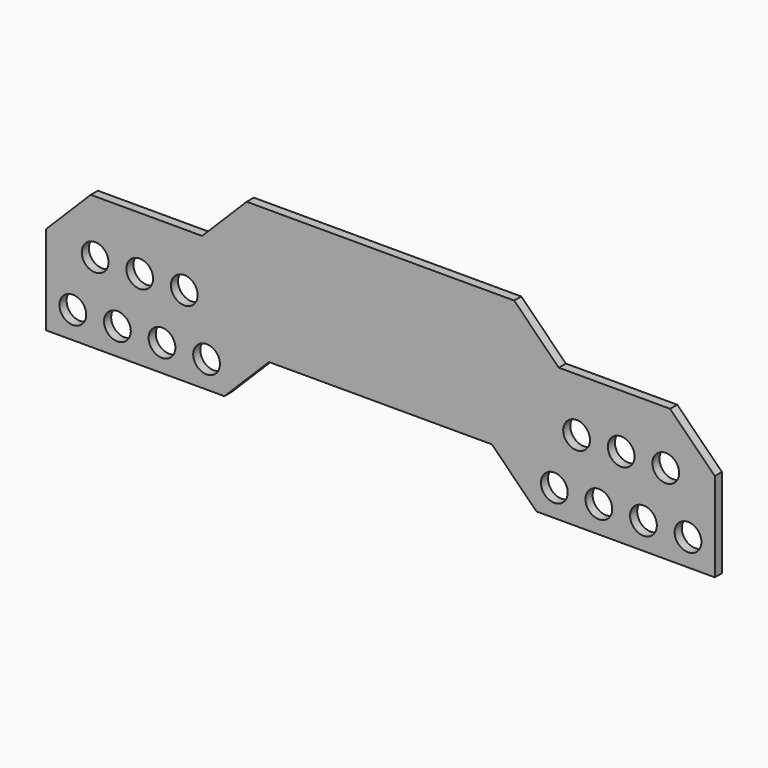
from build123d import *

# Parameters (mm, degrees)
F0_R     = 6
F1_DEPTH = 4


with BuildPart() as f1:
    # F0 (on Front) → F1 (new body)
    with BuildSketch(Plane.XZ):
        Polygon((-60, 80.044094), (-80, 60.044094), (-129.955906, 60.044094), (-150, 40), (-150, 0), (-70, 0), (-50, 20), (0, 20), (50, 20), (70, 0), (150, 0), (150, 40), (129.955906, 60.044094), (80, 60.044094), (60, 80.044094), (0, 80.044094), align=None)
        with Locations((-138, 12)):
            Circle(F0_R, mode=Mode.SUBTRACT)
        with Locations((-118, 12)):
            Circle(F0_R, mode=Mode.SUBTRACT)
        with Locations((-98, 12)):
            Circle(F0_R, mode=Mode.SUBTRACT)
        with Locations((-78, 12)):
            Circle(F0_R, mode=Mode.SUBTRACT)
        with Locations((-128, 36)):
            Circle(F0_R, mode=Mode.SUBTRACT)
        with Locations((-108, 36)):
            Circle(F0_R, mode=Mode.SUBTRACT)
        with Locations((-88, 36)):
            Circle(F0_R, mode=Mode.SUBTRACT)
        with Locations((78, 12)):
            Circle(F0_R, mode=Mode.SUBTRACT)
        with Locations((98, 12)):
            Circle(F0_R, mode=Mode.SUBTRACT)
        with Locations((118, 12)):
            Circle(F0_R, mode=Mode.SUBTRACT)
        with Locations((138, 12)):
            Circle(F0_R, mode=Mode.SUBTRACT)
        with Locations((88, 36)):
            Circle(F0_R, mode=Mode.SUBTRACT)
        with Locations((108, 36)):
            Circle(F0_R, mode=Mode.SUBTRACT)
        with Locations((128, 36)):
            Circle(F0_R, mode=Mode.SUBTRACT)
    extrude(amount=F1_DEPTH)


solid = f1.part
